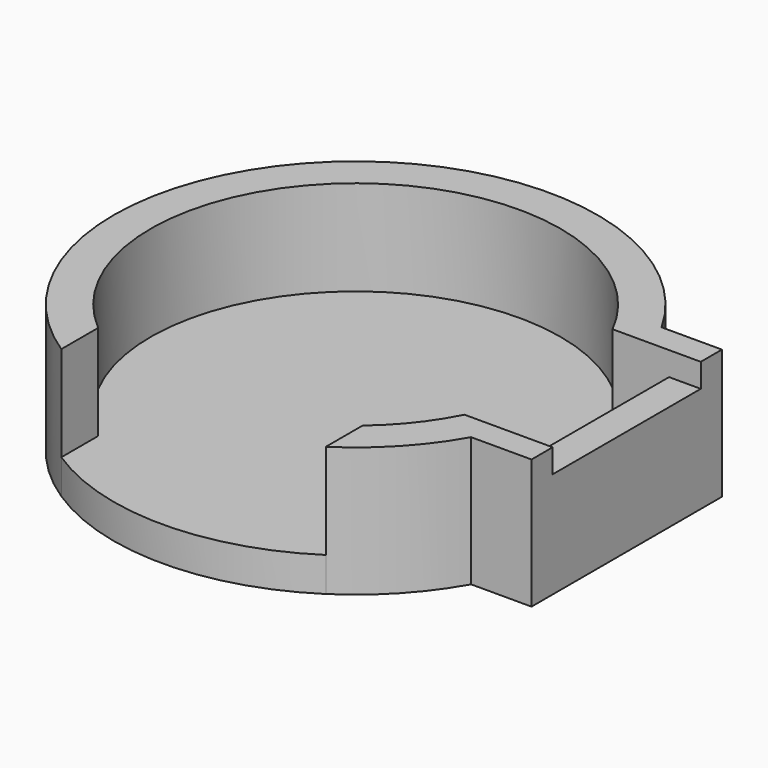
from build123d import *

# Parameters (mm, degrees)
F0_W     = 1.2
F0_H     = 7
F1_DEPTH = 1.3
F2_DEPTH = 4.9
F3_DEPTH = 4


with BuildPart() as f1:
    # F0 (on Top) → F1 (new body)
    with BuildSketch(Plane.XY):
        with BuildLine():
            Line((9.05, 3.5), (6.914658, 3.5))
            ThreePointArc((6.914658, 3.5), (-4.806972, 6.079105), (-5, -5.92136))
            ThreePointArc((-5, -5.92136), (0, -7.75), (5, -5.92136))
            ThreePointArc((5, -5.92136), (6.079105, -4.806972), (6.914658, -3.5))
            Line((6.914658, -3.5), (9.05, -3.5))
            Line((9.05, -3.5), (9.05, 3.5))
        make_face()
        with BuildLine():
            ThreePointArc((-5, -5.92136), (-4.806972, 6.079105), (6.914658, 3.5))
            Line((6.914658, 3.5), (9.05, 3.5))
            Line((9.05, 3.5), (10.25, 3.5))
            Line((10.25, 3.5), (10.25, 4.5))
            Line((10.25, 4.5), (7.966963, 4.5))
            ThreePointArc((7.966963, 4.5), (-6.259851, 6.673588), (-5, -7.663061))
            Line((-5, -7.663061), (-5, -5.92136))
        make_face()
        with BuildLine():
            ThreePointArc((5, -5.92136), (0, -7.75), (-5, -5.92136))
            Line((-5, -5.92136), (-5, -7.663061))
            ThreePointArc((-5, -7.663061), (0, -9.15), (5, -7.663061))
            Line((5, -7.663061), (5, -5.92136))
        make_face()
        with Locations((9.65, 0)):
            Rectangle(F0_W, F0_H)
        with BuildLine():
            ThreePointArc((6.914658, -3.5), (6.079105, -4.806972), (5, -5.92136))
            Line((5, -5.92136), (5, -7.663061))
            ThreePointArc((5, -7.663061), (6.673588, -6.259851), (7.966963, -4.5))
            Line((7.966963, -4.5), (10.25, -4.5))
            Line((10.25, -4.5), (10.25, -3.5))
            Line((10.25, -3.5), (9.05, -3.5))
            Line((9.05, -3.5), (6.914658, -3.5))
        make_face()
        with BuildLine():
            Line((9.05, 3.5), (6.914658, 3.5))
            ThreePointArc((6.914658, 3.5), (-4.806972, 6.079105), (-5, -5.92136))
            ThreePointArc((-5, -5.92136), (0, -7.75), (5, -5.92136))
            ThreePointArc((5, -5.92136), (6.079105, -4.806972), (6.914658, -3.5))
            Line((6.914658, -3.5), (9.05, -3.5))
            Line((9.05, -3.5), (9.05, 3.5))
        make_face()
    extrude(amount=F1_DEPTH)

    # F0 (on Top) → F2 (join)
    with BuildSketch(Plane.XY):
        with BuildLine():
            ThreePointArc((-5, -5.92136), (-4.806972, 6.079105), (6.914658, 3.5))
            Line((6.914658, 3.5), (9.05, 3.5))
            Line((9.05, 3.5), (10.25, 3.5))
            Line((10.25, 3.5), (10.25, 4.5))
            Line((10.25, 4.5), (7.966963, 4.5))
            ThreePointArc((7.966963, 4.5), (-6.259851, 6.673588), (-5, -7.663061))
            Line((-5, -7.663061), (-5, -5.92136))
        make_face()
        with BuildLine():
            ThreePointArc((6.914658, -3.5), (6.079105, -4.806972), (5, -5.92136))
            Line((5, -5.92136), (5, -7.663061))
            ThreePointArc((5, -7.663061), (6.673588, -6.259851), (7.966963, -4.5))
            Line((7.966963, -4.5), (10.25, -4.5))
            Line((10.25, -4.5), (10.25, -3.5))
            Line((10.25, -3.5), (9.05, -3.5))
            Line((9.05, -3.5), (6.914658, -3.5))
        make_face()
    extrude(amount=F2_DEPTH)

    # F0 (on Top) → F3 (join)
    with BuildSketch(Plane.XY):
        with Locations((9.65, 0)):
            Rectangle(F0_W, F0_H)
    extrude(amount=F3_DEPTH)


solid = f1.part
